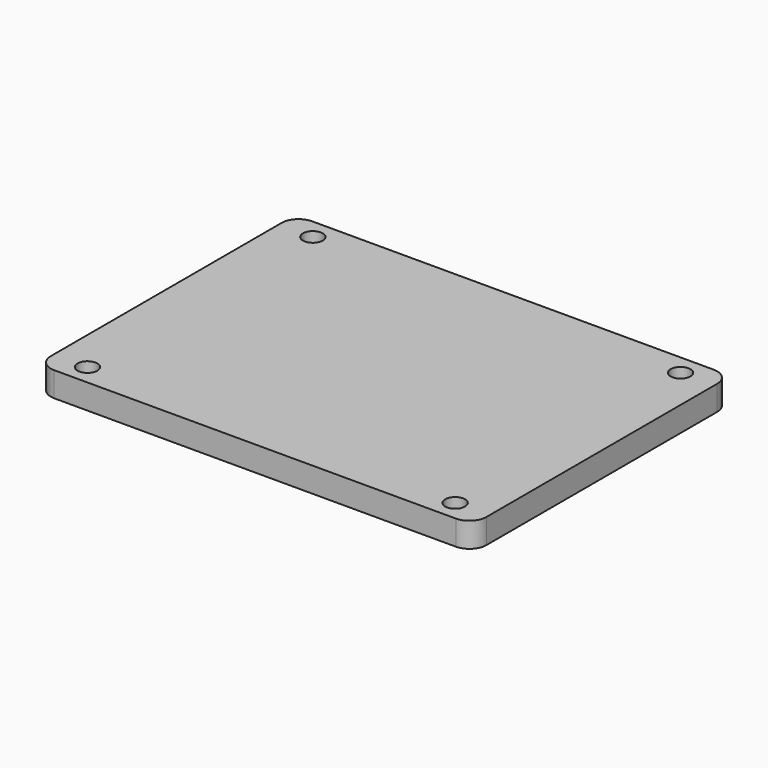
from build123d import *

# Parameters (mm, degrees)
F0_W     = 77
F0_H     = 57
F0_R     = 1.75
F1_DEPTH = 4.38
F2_DEPTH = 3.2
F3_R     = 3


with BuildPart() as f1:
    # F0 (on Top) → F1 (new body)
    with BuildSketch(Plane.XY):
        Rectangle(F0_W, F0_H)
        with Locations((-32.5, -24.908)):
            Circle(F0_R, mode=Mode.SUBTRACT)
        with Locations((32.5, -24.908)):
            Circle(F0_R, mode=Mode.SUBTRACT)
        with Locations((-32.5, 24.908)):
            Circle(F0_R, mode=Mode.SUBTRACT)
        with Locations((32.5, 24.908)):
            Circle(F0_R, mode=Mode.SUBTRACT)
    extrude(amount=F1_DEPTH)

    # F0 (on Top) → F2 (join)
    with BuildSketch(Plane.XY):
        Rectangle(F0_W, F0_H)
        with Locations((-32.5, -24.908)):
            Circle(F0_R, mode=Mode.SUBTRACT)
        with Locations((32.5, -24.908)):
            Circle(F0_R, mode=Mode.SUBTRACT)
        with Locations((-32.5, 24.908)):
            Circle(F0_R, mode=Mode.SUBTRACT)
        with Locations((32.5, 24.908)):
            Circle(F0_R, mode=Mode.SUBTRACT)
    extrude(amount=F2_DEPTH)

    # F3
    f3_edges = [f1.edges().sort_by_distance(p)[0] for p in [
        (-38.5, 28.5, 2.19),
        (-38.5, -28.5, 2.19),
        (38.5, -28.5, 2.19),
        (38.5, 28.5, 2.19),
    ]]
    fillet(f3_edges, radius=F3_R)


solid = f1.part
